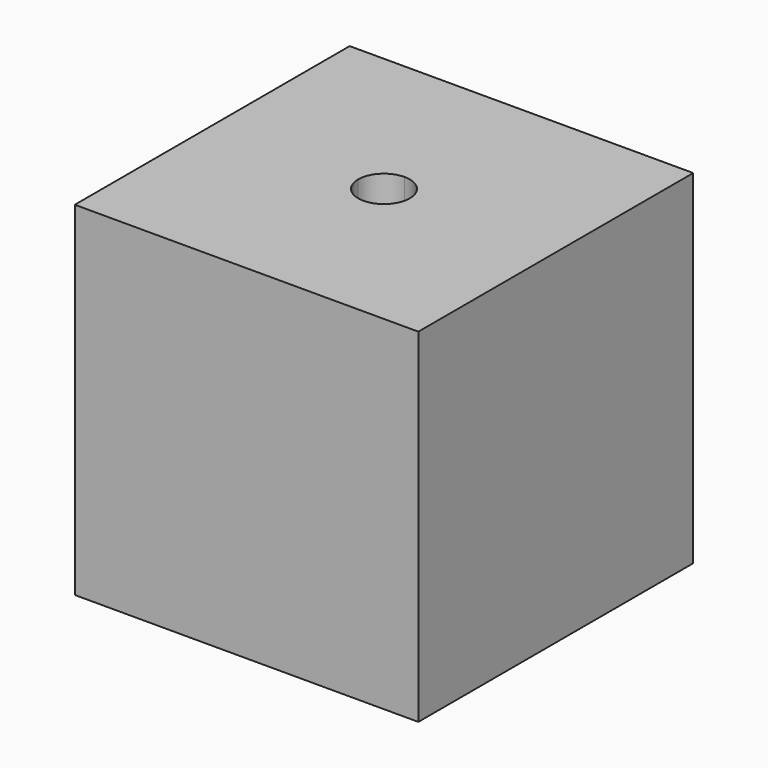
from build123d import *

# Parameters (mm, degrees)
F1_DEPTH = 20


with BuildPart() as f1:
    # F0 (on Top) → F1 (new body)
    with BuildSketch(Plane.XY):
        with BuildLine():
            Line((0, 10), (0, 0))
            Line((0, 0), (10, 0))
            Line((10, 0), (10, 8.5))
            ThreePointArc((10, 8.5), (8.93934, 8.93934), (8.5, 10))
            Line((8.5, 10), (0, 10))
        make_face()
        with BuildLine():
            Line((10, 8.5), (10, 0))
            Line((10, 0), (20, 0))
            Line((20, 0), (20, 10))
            Line((20, 10), (11.5, 10))
            ThreePointArc((11.5, 10), (11.06066, 8.93934), (10, 8.5))
        make_face()
        with BuildLine():
            Line((0, 20), (0, 10))
            Line((0, 10), (8.5, 10))
            ThreePointArc((8.5, 10), (8.93934, 11.06066), (10, 11.5))
            Line((10, 11.5), (10, 20))
            Line((10, 20), (0, 20))
        make_face()
        with BuildLine():
            Line((11.5, 10), (20, 10))
            Line((20, 10), (20, 20))
            Line((20, 20), (10, 20))
            Line((10, 20), (10, 11.5))
            ThreePointArc((10, 11.5), (11.06066, 11.06066), (11.5, 10))
        make_face()
    extrude(amount=F1_DEPTH)


solid = f1.part
